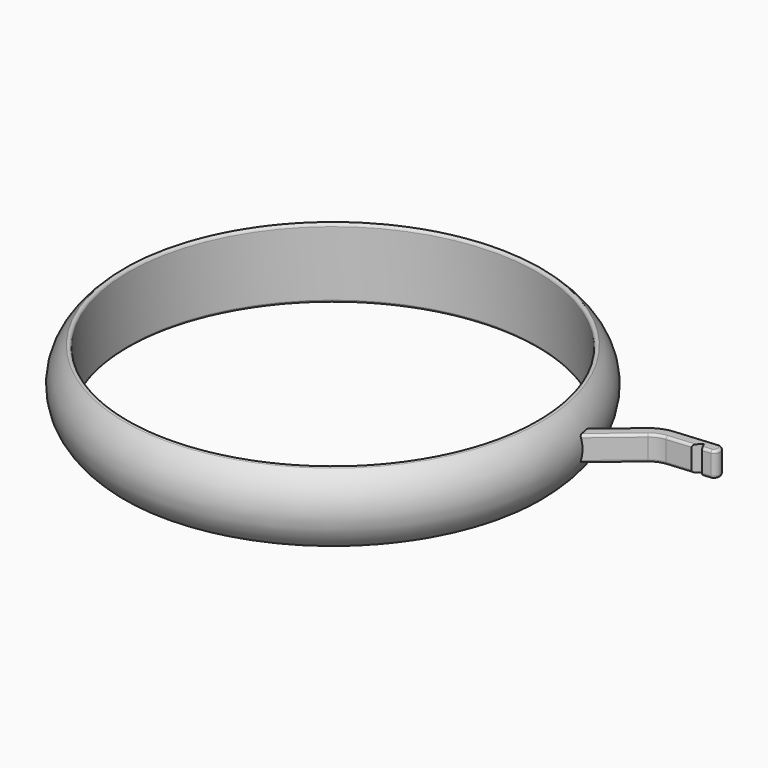
from build123d import *

# Parameters (mm, degrees)
PAD_DEPTH                      = 0.635
FILLET_R                       = 0.127
REVOLVE_ONTO_SKETCH_ROLL_ANGLE = 90
FILLET002_R                    = 0.127


with BuildPart() as prong_1_fillet:
    # Sketch001 → Pad (new body, symmetric)
    with BuildSketch(Plane.XY):
        with BuildLine():
            Line((10.922, 2.352934), (12.867753, 3.985614))
            ThreePointArc((13.917543, 4.420452), (13.359184, 4.283822), (12.867753, 3.985614))
            Line((13.917543, 4.420452), (16.068328, 4.608621))
            ThreePointArc((16.123672, 3.976037), (16.334592, 4.313203), (16.068328, 4.608621))
            Line((15.693515, 3.938403), (16.123672, 3.976037))
            Line((15.546658, 4.253338), (15.693515, 3.938403))
            Line((15.187448, 3.894128), (15.546658, 4.253338))
            Line((13.972887, 3.787868), (15.187448, 3.894128))
            ThreePointArc((13.972887, 3.787868), (13.602188, 3.697158), (13.275923, 3.499176))
            Line((13.275923, 3.499176), (10.922, 1.524))
            Line((10.922, 1.524), (10.922, 2.352934))
        make_face()
    extrude(amount=PAD_DEPTH, both=True)

    # Fillet
    fillet_edges = [prong_1_fillet.edges().sort_by_distance(p)[0] for p in [
        (11.894876, 3.169274, 0.635),
        (13.359184, 4.283822, 0.635),
        (14.992935, 4.514536, 0.635),
        (16.334592, 4.313203, 0.635),
        (15.908593, 3.95722, 0.635),
        (14.580167, 3.840998, 0.635),
        (13.602188, 3.697158, 0.635),
        (12.098962, 2.511588, 0.635),
        (12.098962, 2.511588, -0.635),
        (13.602188, 3.697158, -0.635),
        (14.580167, 3.840998, -0.635),
        (16.334592, 4.313203, -0.635),
        (15.908593, 3.95722, -0.635),
        (14.992935, 4.514536, -0.635),
        (13.359184, 4.283822, -0.635),
        (11.894876, 3.169274, -0.635),
    ]]
    fillet(fillet_edges, radius=FILLET_R)


with BuildPart() as master_fusion:
    # Sketch as drawn → Revolve (revolve)
    with BuildSketch(Plane.XY):
        with BuildLine():
            Line((10.414, 1.905), (10.414, -1.905))
            ThreePointArc((10.414, -1.905), (11.43, 0), (10.414, 1.905))
        make_face()
    revolve(axis=Axis((0, 0, 0), (0, 1, 0)))


with BuildPart() as master_fusion_1:
    # Revolve onto Sketch roll: moved
    add(master_fusion.part.rotate(Axis((0, 0, 0), (1, 0, 0)), REVOLVE_ONTO_SKETCH_ROLL_ANGLE))


with BuildPart() as master_fusion_2:
    # Revolve onto Sketch placement: moved
    add(master_fusion_1.part)

    # Fillet002
    fillet002_edges = [master_fusion_2.edges().sort_by_distance(p)[0] for p in [
        (-10.414, 0, -1.905),
        (-10.414, 0, 1.905),
    ]]
    fillet(fillet002_edges, radius=FILLET002_R)

    # Fusion: union Prong 1 Fillet
    add(prong_1_fillet.part)


solid = master_fusion_2.part
